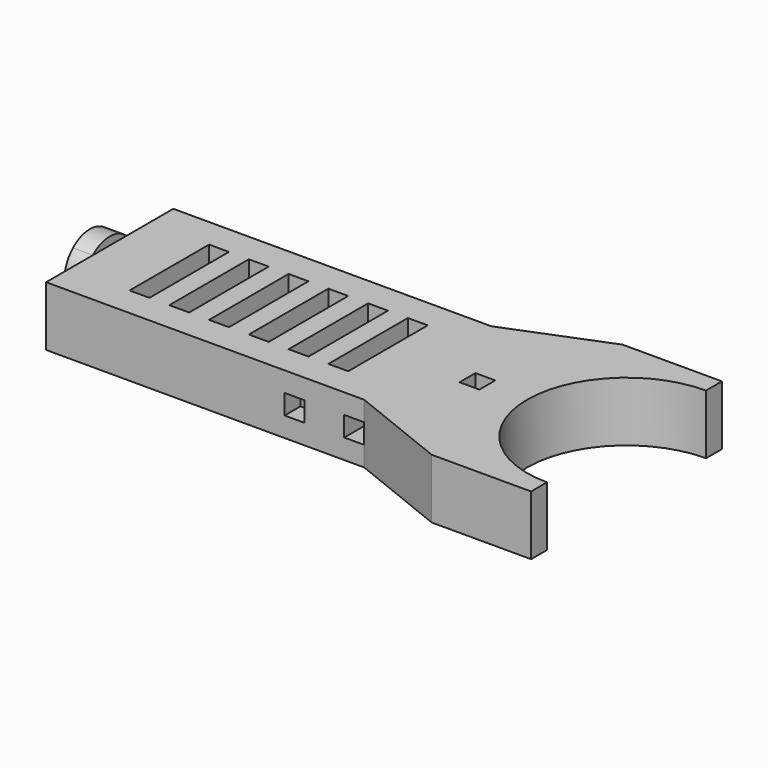
from build123d import *

# Parameters (mm, degrees)
F1_DEPTH  = 15
F2_DEPTH  = 12.5
F4_DEPTH  = 5
F5_W      = 5
F5_H      = 2.5
F6_DEPTH  = 50
F7_W      = 5
F7_H      = 2.5
F8_DEPTH  = 5
F9_W      = 5
F9_H      = 2.5
F10_DEPTH = 5
F11_DEPTH = 10


with BuildPart() as f1:
    # F0 (on Top) → F1 (new body)
    with BuildSketch(Plane.XY):
        with BuildLine():
            ThreePointArc((46.1134053767, -25), (21.1134053767, 0), (46.1134053767, 25))
            Line((46.1134053767, 25), (46.1134053767, 30))
            Line((46.1134053767, 30), (21.1134053767, 30))
            Line((21.1134053767, 30), (-3.8865946233, 20))
            Line((-3.8865946233, 20), (-71.3865946233, 20))
            Line((-71.3865946233, 20), (-71.3865946233, -20))
            Line((-71.3865946233, -20), (-3.8865946233, -20))
            Line((-3.8865946233, -20), (21.1134053767, -30))
            Line((21.1134053767, -30), (46.1134053767, -30))
            Line((46.1134053767, -30), (46.1134053767, -25))
        make_face()
        Polygon((-63.8865946233, 12.5), (-63.8865946233, 0), (-63.8865946233, -12.5), (-68.8865946233, -12.5), (-68.8865946233, 12.5), align=None, mode=Mode.SUBTRACT)
        Polygon((-53.8865946233, 12.5), (-53.8865946233, 0), (-53.8865946233, -12.5), (-58.8865946233, -12.5), (-58.8865946233, 12.5), align=None, mode=Mode.SUBTRACT)
        Polygon((-43.8865946233, 12.5), (-43.8865946233, 0), (-43.8865946233, -12.5), (-48.8865946233, -12.5), (-48.8865946233, 12.5), align=None, mode=Mode.SUBTRACT)
        Polygon((-33.8865946233, 12.5), (-33.8865946233, 0), (-33.8865946233, -12.5), (-38.8865946233, -12.5), (-38.8865946233, 12.5), align=None, mode=Mode.SUBTRACT)
        Polygon((-23.8865946233, 12.5), (-23.8865946233, 0), (-23.8865946233, -12.5), (-28.8865946233, -12.5), (-28.8865946233, 12.5), align=None, mode=Mode.SUBTRACT)
        Polygon((-13.8865946233, 12.5), (-13.8865946233, 0), (-13.8865946233, -12.5), (-18.8865946233, -12.5), (-18.8865946233, 12.5), align=None, mode=Mode.SUBTRACT)
        Polygon((11.1134053767, 2.5), (11.1134053767, 0), (11.1134053767, -2.5), (6.1134053767, -2.5), (6.1134053767, 2.5), align=None, mode=Mode.SUBTRACT)
    extrude(amount=F1_DEPTH)

    # F2 (add): a face of the model
    f2_faces = [f1.faces().sort_by_distance(p)[0] for p in [
        (-71.3865946233, 0, 7.5),
    ]]
    extrude(f2_faces, amount=F2_DEPTH)

    # F3 (on face) → F4 (join)
    with BuildSketch(Plane(origin=(-83.8865946233, 0, 0), x_dir=(0, -1, 0), z_dir=(-1, 0, 0))):
        with BuildLine():
            ThreePointArc((-5.2915026221, 15), (-3.2915026221, 1.7084973779), (8, 9))
            ThreePointArc((8, 9), (7.2915026221, 12.2915026221), (5.2915026221, 15))
            Line((5.2915026221, 15), (-5.2915026221, 15))
        make_face()
        with BuildLine():
            Line((-5.2915026221, 15), (5.2915026221, 15))
            ThreePointArc((5.2915026221, 15), (0, 17), (-5.2915026221, 15))
        make_face()
    extrude(amount=F4_DEPTH)

    # F5 (on face) → F6 (cut)
    with BuildSketch(Plane.XZ.offset(20)):
        with Locations((-6.3865946233, 6.25)):
            Rectangle(F5_W, F5_H)
        with Locations((-6.3865946233, 8.75)):
            Rectangle(F5_W, F5_H)
    extrude(amount=-F6_DEPTH, mode=Mode.SUBTRACT)

    # F7 (on face) → F8 (cut)
    with BuildSketch(Plane.XZ.offset(20)):
        with Locations((-21.3865946233, 8.75)):
            Rectangle(F7_W, F7_H)
        with Locations((-21.3865946233, 6.25)):
            Rectangle(F7_W, F7_H)
    extrude(amount=-F8_DEPTH, mode=Mode.SUBTRACT)

    # F9 (on face) → F10 (cut)
    with BuildSketch(Plane(origin=(0, 20, 0), x_dir=(-1, 0, 0), z_dir=(0, 1, 0))):
        with Locations((21.3865946233, 8.75)):
            Rectangle(F9_W, F9_H)
        with Locations((21.3865946233, 6.25)):
            Rectangle(F9_W, F9_H)
    extrude(amount=-F10_DEPTH, mode=Mode.SUBTRACT)

    # F0 (on Top) → F11 (join)
    with BuildSketch(Plane.XY):
        Polygon((-63.8865946233, -12.5), (-63.8865946233, 0), (-63.8865946233, 12.5), (-68.8865946233, 12.5), (-68.8865946233, -12.5), align=None)
        Polygon((-53.8865946233, -12.5), (-53.8865946233, 0), (-53.8865946233, 12.5), (-58.8865946233, 12.5), (-58.8865946233, -12.5), align=None)
        Polygon((-43.8865946233, -12.5), (-43.8865946233, 0), (-43.8865946233, 12.5), (-48.8865946233, 12.5), (-48.8865946233, -12.5), align=None)
        Polygon((-33.8865946233, -12.5), (-33.8865946233, 0), (-33.8865946233, 12.5), (-38.8865946233, 12.5), (-38.8865946233, -12.5), align=None)
        Polygon((-23.8865946233, -12.5), (-23.8865946233, 0), (-23.8865946233, 12.5), (-28.8865946233, 12.5), (-28.8865946233, -12.5), align=None)
        Polygon((-13.8865946233, -12.5), (-13.8865946233, 0), (-13.8865946233, 12.5), (-18.8865946233, 12.5), (-18.8865946233, -12.5), align=None)
        Polygon((11.1134053767, -2.5), (11.1134053767, 0), (11.1134053767, 2.5), (6.1134053767, 2.5), (6.1134053767, -2.5), align=None)
    extrude(amount=F11_DEPTH)


solid = f1.part
